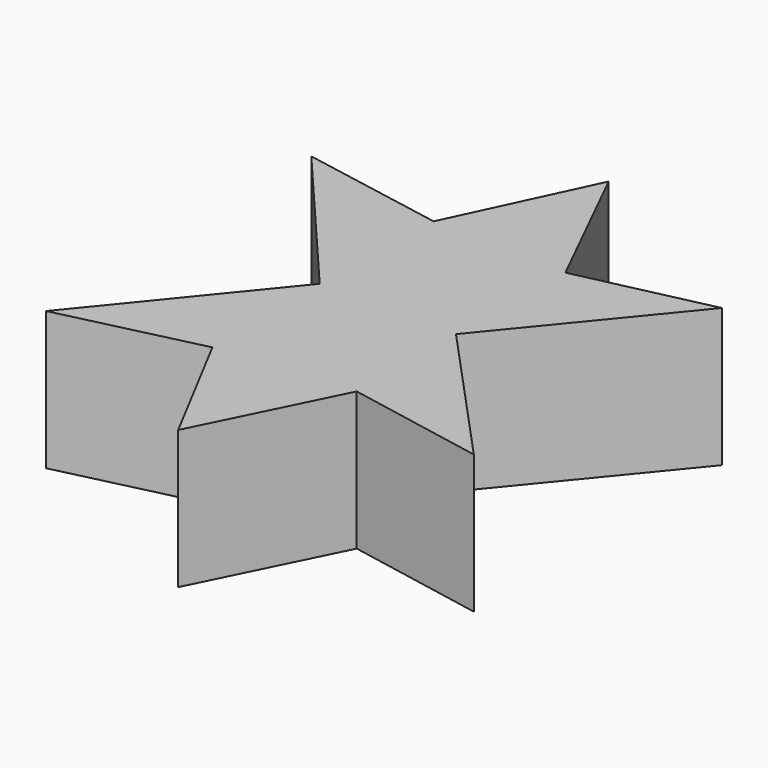
from build123d import *

# Parameters (mm, degrees)
PAD_DEPTH = 20


with BuildPart() as part:
    # Sketch → Pad (new body)
    with BuildSketch(Plane.XY):
        Polygon((0, 49.494946), (10.101008, 29.040401), (29.292929, 33.333336), (9.848488, 9.595961), (29.797977, -12.121212), (9.848488, -8.333331), (0, -28.282829), (-9.595961, -10.101011), (-29.797979, -14.898989), (-9.848484, 9.595961), (-30.050507, 33.333336), (-9.343433, 29.54545), align=None)
    extrude(amount=PAD_DEPTH)


solid = part.part
